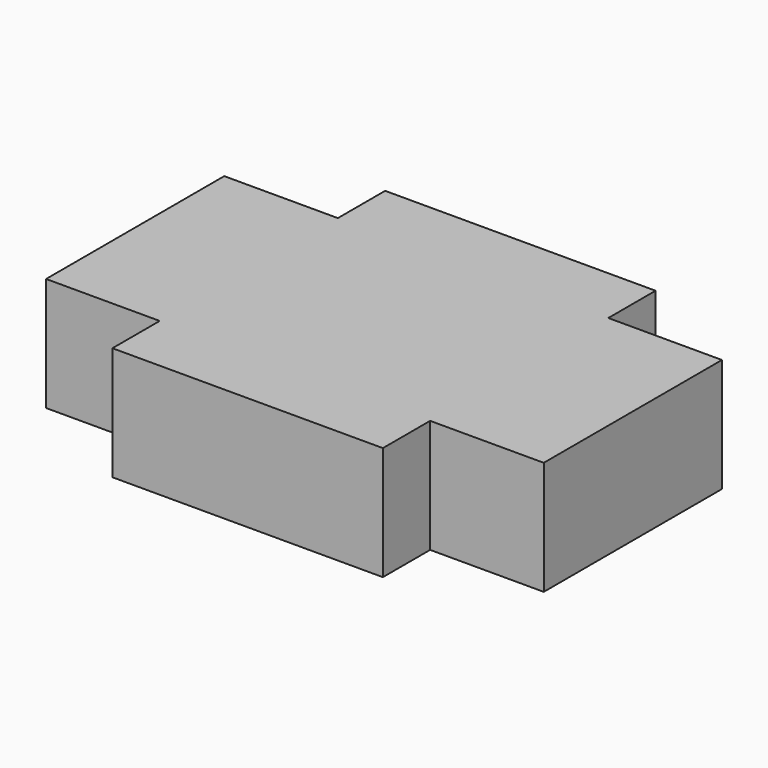
from build123d import *

# Parameters (mm, degrees)
F0_W     = 5
F0_H     = 9.8
F1_DEPTH = 5


with BuildPart() as f1:
    # F0 (on Top) → F1 (new body)
    with BuildSketch(Plane.XY):
        Polygon((-5.95, -4.9), (-5.95, 4.9), (-10.95, 4.9), (-10.95, 0), (-10.95, -4.9), align=None)
        Polygon((5.95, 4.9), (5.95, 7.5), (-5.95, 7.5), (-5.95, 4.9), (-5.95, -4.9), (-5.95, -7.5), (5.95, -7.5), (5.95, -4.9), align=None)
        with Locations((8.45, 0)):
            Rectangle(F0_W, F0_H)
    extrude(amount=F1_DEPTH)


solid = f1.part
